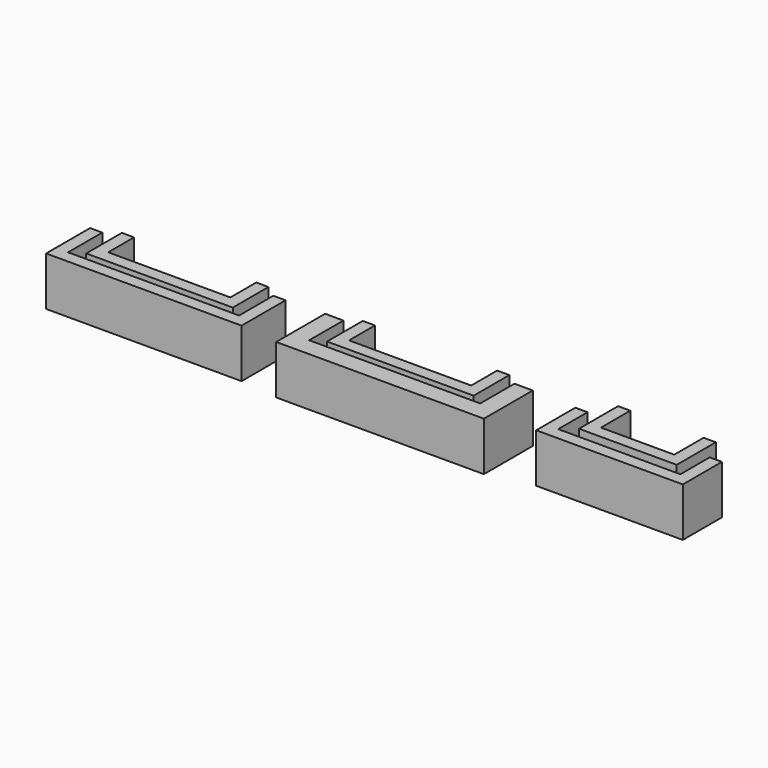
from build123d import *

# Parameters (mm, degrees)
F1_DEPTH = 25.4
F3_DEPTH = 25.4
F5_DEPTH = 25.4


with BuildPart() as f1:
    # F0 (on Top) → F1 (new body)
    with BuildSketch(Plane.XY):
        Polygon((-118.664154, 15.577486), (-118.664154, -12.997514), (-17.064154, -12.997514), (-17.064154, 15.577486), (-23.414154, 15.577486), (-23.414154, -6.647514), (-112.314154, -6.647514), (-112.314154, 15.577486), align=None)
        Polygon((-99.614154, 20.342877), (-105.964154, 20.342877), (-105.964154, -2.812021), (-29.764154, -2.812021), (-29.764154, 20.342877), (-36.114154, 20.342877), (-36.114154, 3.537979), (-99.614154, 3.537979), align=None)
    extrude(amount=F1_DEPTH)


with BuildPart() as f3:
    # F2 (on Top) → F3 (new body)
    with BuildSketch(Plane.XY):
        Polygon((12.384747, 16.344548), (2.859747, 16.344548), (2.859747, -15.405452), (110.809747, -15.405452), (110.809747, 16.344548), (101.284747, 16.344548), (101.284747, -5.880452), (12.384747, -5.880452), align=None)
        Polygon((25.084747, 20.97974), (18.734747, 20.97974), (18.734747, -2.210185), (94.934747, -2.210185), (94.934747, 20.97974), (88.584747, 20.97974), (88.584747, 4.139815), (25.084747, 4.139815), align=None)
    extrude(amount=F3_DEPTH)


with BuildPart() as f5:
    # F4 (on Top) → F5 (new body)
    with BuildSketch(Plane.XY):
        Polygon((140.102306, 15.308876), (133.752306, 15.308876), (133.752306, -10.091124), (209.952306, -10.091124), (209.952306, 15.308876), (203.602306, 15.308876), (203.602306, -3.741124), (140.102306, -3.741124), align=None)
        Polygon((152.802306, 27.21146), (146.452306, 27.21146), (146.452306, 1.81146), (197.252306, 1.81146), (197.252306, 27.21146), (190.902306, 27.21146), (190.902306, 8.16146), (152.802306, 8.16146), align=None)
    extrude(amount=F5_DEPTH)


solid = Compound([f1.part, f3.part, f5.part])
